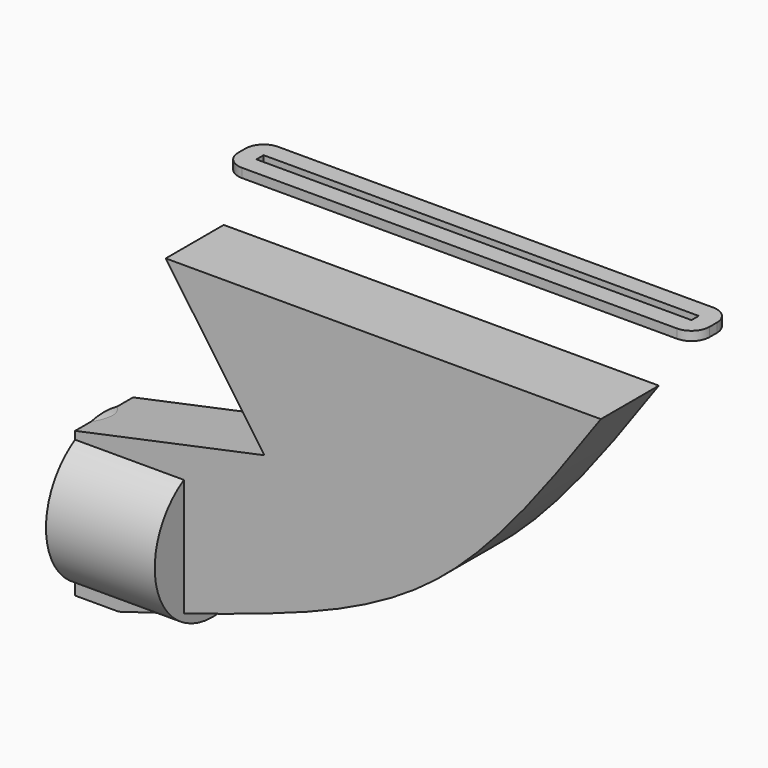
from build123d import *

# Parameters (mm, degrees)
F0_W     = 152.4
F0_H     = 3.175
F1_DEPTH = 3.175
F3_DEPTH = 25.4
F4_R     = 25.4
F5_DEPTH = 38.1


with BuildPart() as f1:
    # F0 (on Top) → F1 (new body)
    with BuildSketch(Plane.XY):
        with BuildLine():
            ThreePointArc((0, 6.35), (1.8598719395, 1.8598719395), (6.35, 0))
            Line((6.35, 0), (158.75, 0))
            ThreePointArc((158.75, 0), (163.2401280605, 1.8598719395), (165.1, 6.35))
            Line((165.1, 6.35), (165.1, 9.525))
            ThreePointArc((165.1, 9.525), (163.2401280605, 14.0151280605), (158.75, 15.875))
            Line((158.75, 15.875), (6.35, 15.875))
            ThreePointArc((6.35, 15.875), (1.8598719395, 14.0151280605), (0, 9.525))
            Line((0, 9.525), (0, 6.35))
        make_face()
        with Locations((82.55, 7.9375)):
            Rectangle(F0_W, F0_H, mode=Mode.SUBTRACT)
    extrude(amount=F1_DEPTH)


with BuildPart() as f3:
    # F2 (on Front) → F3 (new body)
    with BuildSketch(Plane.XZ):
        with BuildLine():
            Line((152.4, -16.5177099407), (0, -16.5177099407))
            Line((0, -16.5177099407), (34.5891490579, -65.9765824676))
            Line((34.5891490579, -65.9765824676), (-31.75, -80.0177099407))
            Line((-31.75, -80.0177099407), (-31.75, -130.8177099407))
            Line((-31.75, -130.8177099407), (-16.452409327, -130.8177099407))
            add(Edge.make_bspline(
                [(152.4, -16.5177099407), (134.0951380327, -42.4000578135), (100.0168941161, -90.5853413475), (34.6307022377, -115.5229748023), (-0.1236675502, -125.928740319), (-16.452409327, -130.8177099407)],
                knots=[0, 0, 0, 0, 0.3809023627, 0.709127643, 1, 1, 1, 1], degree=3))
        make_face()
    extrude(amount=F3_DEPTH)

    # F4 (on face) → F5 (join)
    with BuildSketch(Plane(origin=(-31.75, 0, 0), x_dir=(0, -1, 0), z_dir=(-1, 0, 0))):
        with Locations((12.7482553944, -104.7707274556)):
            Circle(F4_R)
    extrude(amount=-F5_DEPTH)


solid = Compound([f1.part, f3.part])
